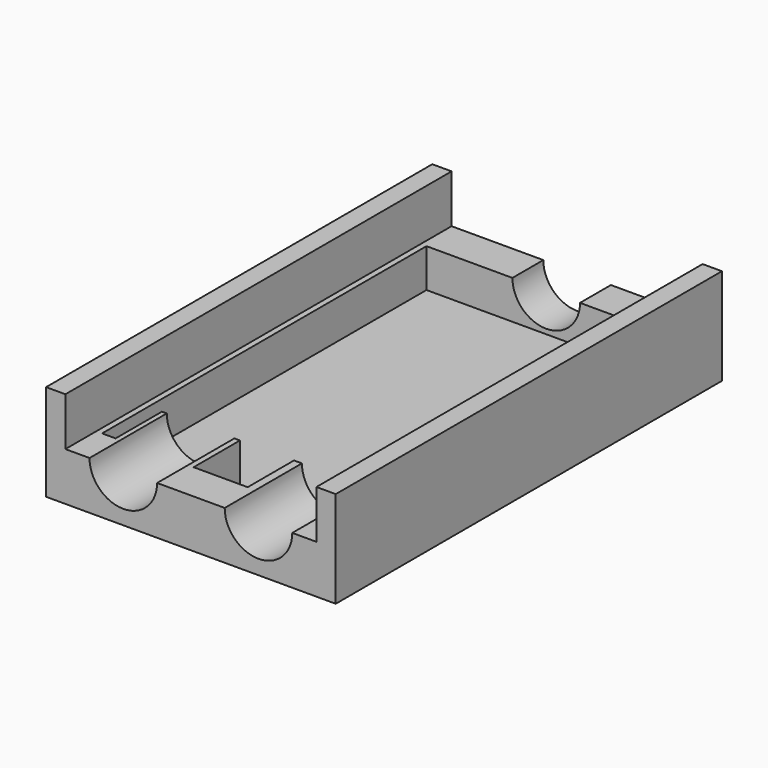
from build123d import *

# Parameters (mm, degrees)
PAD_DEPTH      = 25
SKETCH001_R    = 1.75
HOLE_DEPTH     = 5
HOLE_TIPS_R    = 1.75
POCKET_DEPTH   = 2
SKETCH003_R    = 1.75
HOLE001_DEPTH  = 2
HOLE001_TIPS_R = 1.75


with BuildPart() as part:
    # Sketch → Pad (new body)
    with BuildSketch(Plane.XZ):
        Polygon((0, 0), (15, 0), (15, 5), (14, 5), (14, 2.5), (1, 2.5), (1, 5), (0, 5), align=None)
    extrude(amount=PAD_DEPTH)

    # Sketch001 (on Face10 of Pad) → Hole (cut)
    with BuildSketch(Plane.XZ.offset(25)):
        with Locations((4, 2.5)):
            Circle(SKETCH001_R)
        with Locations((11, 2.5)):
            Circle(SKETCH001_R)
    extrude(amount=-HOLE_DEPTH, mode=Mode.SUBTRACT)

    # Hole tips → Hole tip 1 section 0
    with BuildSketch(Plane.XZ.offset(20), mode=Mode.PRIVATE) as hole_tip_1_s0:
        with Locations((4, 2.5)):
            Circle(HOLE_TIPS_R)
    loft([hole_tip_1_s0.sketch, Vertex(4, -18.948494, 2.5)], mode=Mode.SUBTRACT)

    # Hole tips → Hole tip 2 section 0
    with BuildSketch(Plane.XZ.offset(20), mode=Mode.PRIVATE) as hole_tip_2_s0:
        with Locations((11, 2.5)):
            Circle(HOLE_TIPS_R)
    loft([hole_tip_2_s0.sketch, Vertex(11, -18.948494, 2.5)], mode=Mode.SUBTRACT)

    # Sketch002 (on Face2 of Hole) → Pocket (cut)
    with BuildSketch(Plane(origin=(0, 0, 2.5), x_dir=(-1, 0, 0), z_dir=(0, 0, 1))):
        Polygon((-13.7, 23), (-13, 23), (-13, 20), (-8.84, 20), (-8.84, 23), (-6.04, 23), (-6.04, 20), (-2, 20), (-2, 23), (-1.3, 23), (-1.3, 2), (-13.7, 2), align=None)
    extrude(amount=-POCKET_DEPTH, mode=Mode.SUBTRACT)

    # Sketch003 (on Face4 of Pocket) → Hole001 (cut)
    with BuildSketch(Plane(origin=(0, 0, 0), x_dir=(1, 0, 0), z_dir=(0, 1, 0))):
        with Locations((7.5, -2.5)):
            Circle(SKETCH003_R)
    extrude(amount=-HOLE001_DEPTH, mode=Mode.SUBTRACT)

    # Hole001 tips → Hole001 tip 1 section 0
    with BuildSketch(Plane(origin=(0, -2, 0), x_dir=(1, 0, 0), z_dir=(0, 1, 0)), mode=Mode.PRIVATE) as hole001_tip_1_s0:
        with Locations((7.5, -2.5)):
            Circle(HOLE001_TIPS_R)
    loft([hole001_tip_1_s0.sketch, Vertex(7.5, -3.051506, 2.5)], mode=Mode.SUBTRACT)


solid = part.part
